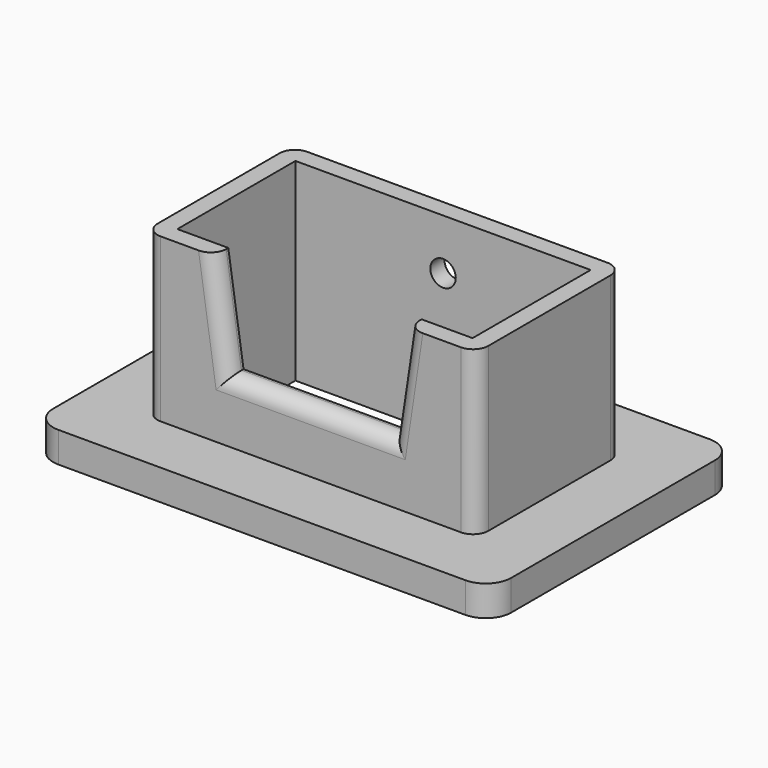
from build123d import *

# Parameters (mm, degrees)
F0_W      = 90
F0_H      = 60
F1_DEPTH  = 6
F2_W      = 65
F2_H      = 36
F3_DEPTH  = 32
F4_W      = 58
F4_H      = 29
F5_DEPTH  = 38
F7_DEPTH  = 3.5
F8_R      = 2.5
F9_DEPTH  = 3.5
F11_DEPTH = 12
F12_R     = 5.5
F12_R_2   = 4
F13_DEPTH = 2
F14_DEPTH = 25
F15_R     = 5
F16_R     = 3


with BuildPart() as f1:
    # F0 (on Top) → F1 (new body)
    with BuildSketch(Plane.XY):
        Rectangle(F0_W, F0_H)
    extrude(amount=F1_DEPTH)

    # F2 (on face) → F3 (join)
    with BuildSketch(Plane.XY.offset(6)):
        Rectangle(F2_W, F2_H)
    extrude(amount=F3_DEPTH)

    # F4 (on face) → F5 (cut, through all)
    with BuildSketch(Plane.XY.offset(38)):
        Rectangle(F4_W, F4_H)
    extrude(amount=-F5_DEPTH, mode=Mode.SUBTRACT)

    # F6 (on face) → F7 (cut, through all)
    with BuildSketch(Plane.XZ.offset(18)):
        Polygon((19, 38), (-19, 38), (-16, 18), (0, 18), (16, 18), align=None)
    extrude(amount=-F7_DEPTH, mode=Mode.SUBTRACT)

    # F8 (on face) → F9 (cut, through all)
    with BuildSketch(Plane.XZ.offset(-14.5)):
        with Locations((0, 28)):
            Circle(F8_R)
    extrude(amount=-F9_DEPTH, mode=Mode.SUBTRACT)

    # F10 (on face) → F11 (cut, through all)
    with BuildSketch(Plane(origin=(0, 30, 0), x_dir=(-1, 0, 0), z_dir=(0, 1, 0))):
        with BuildLine():
            Line((10.9752045511, 6), (-10.9752045511, 6))
            ThreePointArc((-10.9752045511, 6), (0, 0.532957507), (10.9752045511, 6))
        make_face()
    extrude(amount=-F11_DEPTH, mode=Mode.SUBTRACT)

    # F12 (on face) → F13 (join)
    with BuildSketch(Plane(origin=(0, 18, 0), x_dir=(-1, 0, 0), z_dir=(0, 1, 0))):
        with Locations((0, 11)):
            Circle(F12_R)
        with Locations((0, 11)):
            Circle(F12_R_2, mode=Mode.SUBTRACT)
    extrude(amount=F13_DEPTH)

    # F14 (cut): a face of the model
    f14_faces = [f1.faces().sort_by_distance(p)[0] for p in [
        (0, 18, 11),
    ]]
    extrude(f14_faces, amount=-F14_DEPTH, mode=Mode.SUBTRACT)

    # F15
    f15_edges = [f1.edges().sort_by_distance(p)[0] for p in [
        (45, -30, 3),
        (45, 30, 3),
        (-45, -30, 3),
        (-45, 30, 3),
    ]]
    fillet(f15_edges, radius=F15_R)

    # F16
    f16_edges = [f1.edges().sort_by_distance(p)[0] for p in [
        (-32.5, 18, 22),
        (-32.5, -18, 22),
        (32.5, 18, 22),
        (32.5, -18, 22),
        (-17.5, -18, 28),
        (17.5, -18, 28),
        (0, -18, 18),
    ]]
    fillet(f16_edges, radius=F16_R)


solid = f1.part
